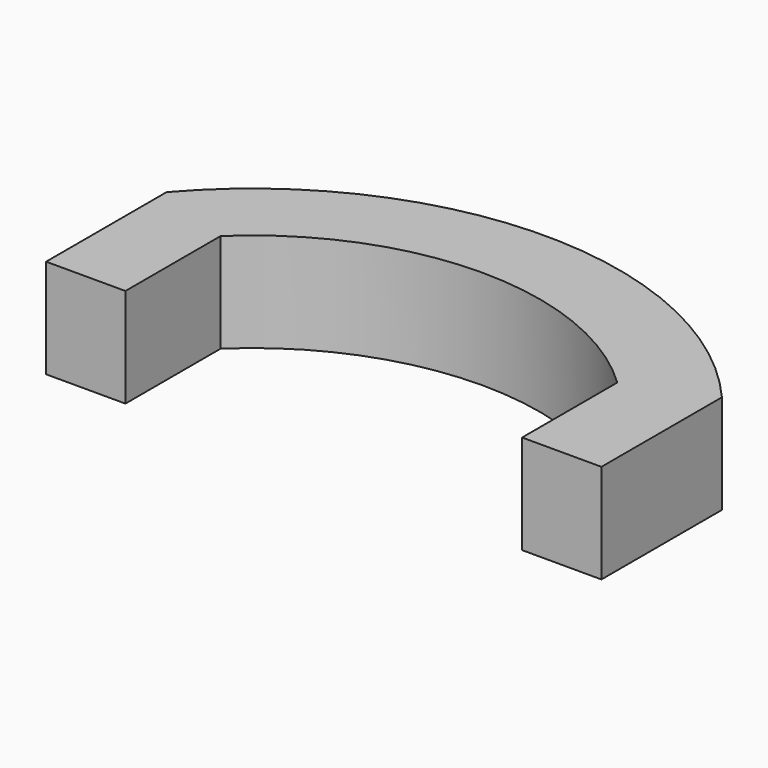
from build123d import *

# Parameters (mm, degrees)
F0_W     = 1400
F0_H     = 700
F1_DEPTH = 250
F3_DEPTH = 250.001
F5_DEPTH = 250.001


with BuildPart() as f1:
    # F0 (on Top) → F1 (new body)
    with BuildSketch(Plane.XY):
        with Locations((700, 350)):
            Rectangle(F0_W, F0_H)
    extrude(amount=F1_DEPTH)

    # F2 (on face) → F3 (cut, through all)
    with BuildSketch(Plane.XY.offset(250)):
        with BuildLine():
            Line((200, 300), (200, 0))
            Line((200, 0), (1200, 0))
            Line((1200, 0), (1200, 300))
            ThreePointArc((1200, 300), (700, 500), (200, 300))
        make_face()
    extrude(amount=-F3_DEPTH, mode=Mode.SUBTRACT)

    # F4 (on face) → F5 (cut, through all)
    with BuildSketch(Plane.XY.offset(250)):
        with BuildLine():
            ThreePointArc((0, 379.6693311224), (315.0936031242, 616.1135866481), (700, 700))
            Line((700, 700), (0, 700))
            Line((0, 700), (0, 379.6693311224))
        make_face()
        with BuildLine():
            Line((1400, 700), (700, 700))
            ThreePointArc((700, 700), (1084.9063968758, 616.1135866481), (1400, 379.6693311224))
            Line((1400, 379.6693311224), (1400, 700))
        make_face()
    extrude(amount=-F5_DEPTH, mode=Mode.SUBTRACT)


solid = f1.part
